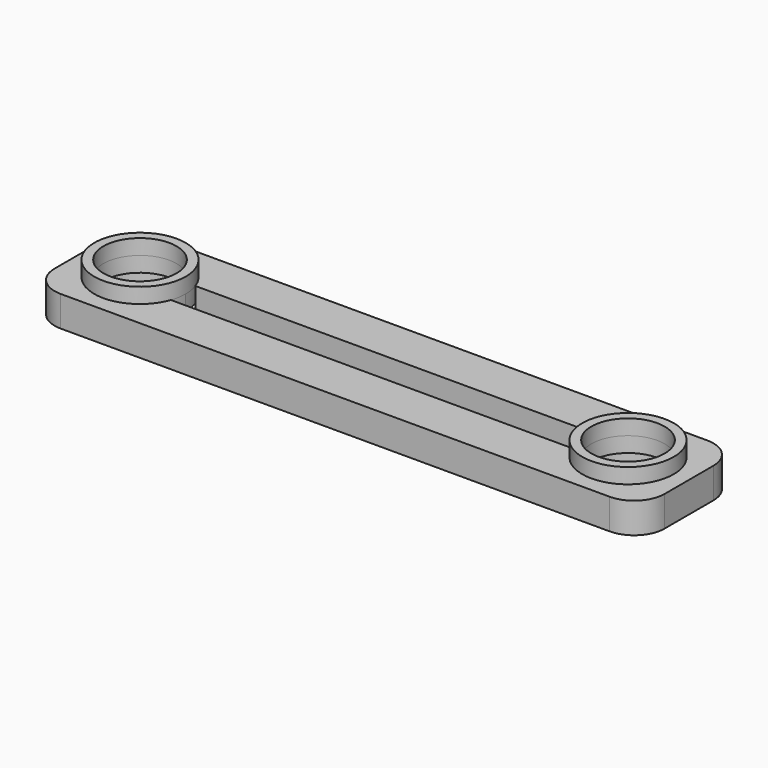
from build123d import *

# Parameters (mm, degrees)
F0_W          = 200
F0_H          = 40
F1_DEPTH      = 10
F2_R          = 15
F3_DEPTH      = 10
F5_DEPTH      = 25
F6_R          = 15
F6_R_2        = 12
F7_DEPTH      = 5
F7_DEPTH_BACK = 5
F8_R          = 10
F9_R          = 2


with BuildPart() as f1:
    # F0 (on Top) → F1 (new body)
    with BuildSketch(Plane.XY):
        Rectangle(F0_W, F0_H)
    extrude(amount=F1_DEPTH)

    # F2 (on face) → F3 (cut)
    with BuildSketch(Plane.XY.offset(10)):
        with Locations((80, 0)):
            Circle(F2_R)
        with Locations((-80, 0)):
            Circle(F2_R)
    extrude(amount=-F3_DEPTH, mode=Mode.SUBTRACT)

    # F4 (on face) → F5 (cut)
    with BuildSketch(Plane.XY.offset(10)):
        with BuildLine():
            Line((-65.8578643763, -5), (65.8578643763, -5))
            ThreePointArc((65.8578643763, -5), (65, 0), (65.8578643763, 5))
            Line((65.8578643763, 5), (-65.8578643763, 5))
            ThreePointArc((-65.8578643763, 5), (-65.2160216052, 2.5365296809), (-65, 0))
            ThreePointArc((-65, 0), (-65.2160216052, -2.5365296809), (-65.8578643763, -5))
        make_face()
    extrude(amount=-F5_DEPTH, mode=Mode.SUBTRACT)

    # F6 (on face) → F7 (join, two sides)
    with BuildSketch(Plane.XY.offset(10)) as f7_sk:
        with Locations((-80, 0)):
            Circle(F6_R)
        with Locations((-80, 0)):
            Circle(F6_R_2, mode=Mode.SUBTRACT)
        with Locations((80, 0)):
            Circle(F6_R)
        with Locations((80, 0)):
            Circle(F6_R_2, mode=Mode.SUBTRACT)
    extrude(amount=F7_DEPTH)
    extrude(f7_sk.sketch, amount=-F7_DEPTH_BACK)

    # F8
    f8_edges = [f1.edges().sort_by_distance(p)[0] for p in [
        (-100, -20, 5),
        (100, -20, 5),
        (100, 20, 5),
        (-100, 20, 5),
    ]]
    fillet(f8_edges, radius=F8_R)

    # F9
    f9_edges = [f1.edges().sort_by_distance(p)[0] for p in [
        (0, -5, 0),
        (0, 5, 0),
    ]]
    fillet(f9_edges, radius=F9_R)


solid = f1.part
